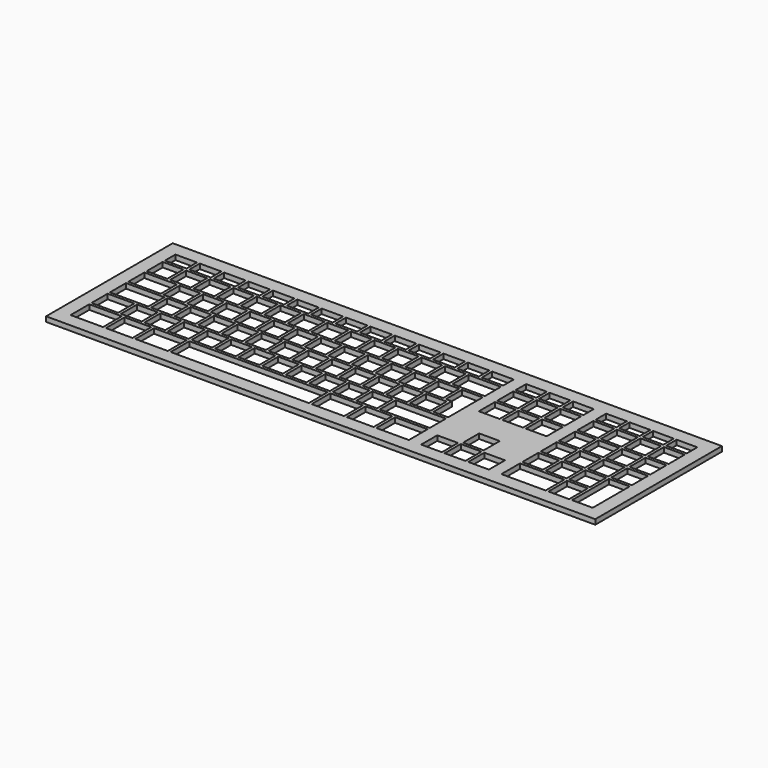
from build123d import *

# Parameters (mm, degrees)
F0_W     = 444
F0_H     = 128
F0_W_2   = 26.25
F0_H_2   = 18.9
F0_W_3   = 21.5
F0_W_4   = 111.7
F0_H_3   = 16.25
F0_W_5   = 16.72
F0_W_6   = 31
F0_W_7   = 35.74
F0_H_4   = 18.81
F0_H_5   = 37.3
F0_W_8   = 40.44
F0_W_9   = 17.4
F0_H_6   = 10.6
F0_W_10  = 26.2
F0_W_11  = 16.7007
F1_DEPTH = 4


with BuildPart() as f1:
    # F0 (on Top) → F1 (new body)
    with BuildSketch(Plane.XY):
        with Locations((7.586707, -144.251948)):
            Rectangle(F0_W, F0_H)
        with Locations((-190.288293, -187.801948)):
            Rectangle(F0_W_2, F0_H_2, mode=Mode.SUBTRACT)
        with Locations((-164.113293, -187.801948)):
            Rectangle(F0_W_3, F0_H_2, mode=Mode.SUBTRACT)
        with Locations((-137.938293, -187.801948)):
            Rectangle(F0_W_2, F0_H_2, mode=Mode.SUBTRACT)
        with Locations((-66.663293, -187.801948)):
            Rectangle(F0_W_4, F0_H_2, mode=Mode.SUBTRACT)
        with Locations((4.611707, -187.801948)):
            Rectangle(F0_W_2, F0_H_2, mode=Mode.SUBTRACT)
        with Locations((-192.663293, -167.926948)):
            Rectangle(F0_W_3, F0_H_3, mode=Mode.SUBTRACT)
        with Locations((-171.253293, -167.926948)):
            Rectangle(F0_W_5, F0_H_3, mode=Mode.SUBTRACT)
        with Locations((-152.233293, -167.926948)):
            Rectangle(F0_W_5, F0_H_3, mode=Mode.SUBTRACT)
        with Locations((-133.213293, -167.926948)):
            Rectangle(F0_W_5, F0_H_3, mode=Mode.SUBTRACT)
        with Locations((-114.193293, -167.926948)):
            Rectangle(F0_W_5, F0_H_3, mode=Mode.SUBTRACT)
        with Locations((-187.913293, -149.376948)):
            Rectangle(F0_W_6, F0_H_3, mode=Mode.SUBTRACT)
        with Locations((-161.753293, -149.376948)):
            Rectangle(F0_W_5, F0_H_3, mode=Mode.SUBTRACT)
        with Locations((-142.733293, -149.376948)):
            Rectangle(F0_W_5, F0_H_3, mode=Mode.SUBTRACT)
        with Locations((-123.713293, -149.376948)):
            Rectangle(F0_W_5, F0_H_3, mode=Mode.SUBTRACT)
        with Locations((-104.693293, -149.376948)):
            Rectangle(F0_W_5, F0_H_3, mode=Mode.SUBTRACT)
        with Locations((-95.173293, -167.926948)):
            Rectangle(F0_W_5, F0_H_3, mode=Mode.SUBTRACT)
        with Locations((-76.153293, -167.926948)):
            Rectangle(F0_W_5, F0_H_3, mode=Mode.SUBTRACT)
        with Locations((-57.133293, -167.926948)):
            Rectangle(F0_W_5, F0_H_3, mode=Mode.SUBTRACT)
        with Locations((-38.113293, -167.926948)):
            Rectangle(F0_W_5, F0_H_3, mode=Mode.SUBTRACT)
        with Locations((-19.093293, -167.926948)):
            Rectangle(F0_W_5, F0_H_3, mode=Mode.SUBTRACT)
        with Locations((-0.073293, -167.926948)):
            Rectangle(F0_W_5, F0_H_3, mode=Mode.SUBTRACT)
        with Locations((-85.673293, -149.376948)):
            Rectangle(F0_W_5, F0_H_3, mode=Mode.SUBTRACT)
        with Locations((-66.653293, -149.376948)):
            Rectangle(F0_W_5, F0_H_3, mode=Mode.SUBTRACT)
        with Locations((-47.633293, -149.376948)):
            Rectangle(F0_W_5, F0_H_3, mode=Mode.SUBTRACT)
        with Locations((-28.613293, -149.376948)):
            Rectangle(F0_W_5, F0_H_3, mode=Mode.SUBTRACT)
        with Locations((-9.593293, -149.376948)):
            Rectangle(F0_W_5, F0_H_3, mode=Mode.SUBTRACT)
        with Locations((30.786707, -187.801948)):
            Rectangle(F0_W_3, F0_H_2, mode=Mode.SUBTRACT)
        with Locations((56.961707, -187.801948)):
            Rectangle(F0_W_2, F0_H_2, mode=Mode.SUBTRACT)
        with Locations((88.406707, -189.126948)):
            Rectangle(F0_W_5, F0_H_3, mode=Mode.SUBTRACT)
        with Locations((107.426707, -189.126948)):
            Rectangle(F0_W_5, F0_H_3, mode=Mode.SUBTRACT)
        with Locations((126.446707, -189.126948)):
            Rectangle(F0_W_5, F0_H_3, mode=Mode.SUBTRACT)
        with Locations((162.676707, -187.756948)):
            Rectangle(F0_W_7, F0_H_4, mode=Mode.SUBTRACT)
        with Locations((191.206707, -187.756948)):
            Rectangle(F0_W_5, F0_H_4, mode=Mode.SUBTRACT)
        with Locations((210.226707, -178.451948)):
            Rectangle(F0_W_5, F0_H_5, mode=Mode.SUBTRACT)
        with Locations((18.946707, -167.926948)):
            Rectangle(F0_W_5, F0_H_3, mode=Mode.SUBTRACT)
        with Locations((49.826707, -167.926948)):
            Rectangle(F0_W_8, F0_H_3, mode=Mode.SUBTRACT)
        with Locations((107.426707, -170.576948)):
            Rectangle(F0_W_5, F0_H_3, mode=Mode.SUBTRACT)
        with Locations((9.426707, -149.376948)):
            Rectangle(F0_W_5, F0_H_3, mode=Mode.SUBTRACT)
        with Locations((28.446707, -149.376948)):
            Rectangle(F0_W_5, F0_H_3, mode=Mode.SUBTRACT)
        with Locations((47.466707, -149.376948)):
            Rectangle(F0_W_5, F0_H_3, mode=Mode.SUBTRACT)
        with Locations((153.166707, -167.926948)):
            Rectangle(F0_W_5, F0_H_3, mode=Mode.SUBTRACT)
        with Locations((172.186707, -167.926948)):
            Rectangle(F0_W_5, F0_H_3, mode=Mode.SUBTRACT)
        with Locations((191.206707, -167.926948)):
            Rectangle(F0_W_5, F0_H_3, mode=Mode.SUBTRACT)
        with Locations((153.166707, -149.376948)):
            Rectangle(F0_W_5, F0_H_3, mode=Mode.SUBTRACT)
        with Locations((172.186707, -149.376948)):
            Rectangle(F0_W_5, F0_H_3, mode=Mode.SUBTRACT)
        with Locations((191.206707, -149.376948)):
            Rectangle(F0_W_5, F0_H_3, mode=Mode.SUBTRACT)
        with Locations((210.226707, -149.376948)):
            Rectangle(F0_W_5, F0_H_3, mode=Mode.SUBTRACT)
        with Locations((-190.288293, -130.826948)):
            Rectangle(F0_W_2, F0_H_3, mode=Mode.SUBTRACT)
        with Locations((-166.503293, -130.826948)):
            Rectangle(F0_W_5, F0_H_3, mode=Mode.SUBTRACT)
        with Locations((-147.483293, -130.826948)):
            Rectangle(F0_W_5, F0_H_3, mode=Mode.SUBTRACT)
        with Locations((-128.463293, -130.826948)):
            Rectangle(F0_W_5, F0_H_3, mode=Mode.SUBTRACT)
        with Locations((-109.443293, -130.826948)):
            Rectangle(F0_W_5, F0_H_3, mode=Mode.SUBTRACT)
        with Locations((-195.053293, -112.276948)):
            Rectangle(F0_W_5, F0_H_3, mode=Mode.SUBTRACT)
        with Locations((-176.033293, -112.276948)):
            Rectangle(F0_W_5, F0_H_3, mode=Mode.SUBTRACT)
        with Locations((-157.013293, -112.276948)):
            Rectangle(F0_W_5, F0_H_3, mode=Mode.SUBTRACT)
        with Locations((-137.993293, -112.276948)):
            Rectangle(F0_W_5, F0_H_3, mode=Mode.SUBTRACT)
        with Locations((-118.973293, -112.276948)):
            Rectangle(F0_W_5, F0_H_3, mode=Mode.SUBTRACT)
        with Locations((-90.423293, -130.826948)):
            Rectangle(F0_W_5, F0_H_3, mode=Mode.SUBTRACT)
        with Locations((-71.403293, -130.826948)):
            Rectangle(F0_W_5, F0_H_3, mode=Mode.SUBTRACT)
        with Locations((-52.383293, -130.826948)):
            Rectangle(F0_W_5, F0_H_3, mode=Mode.SUBTRACT)
        with Locations((-33.363293, -130.826948)):
            Rectangle(F0_W_5, F0_H_3, mode=Mode.SUBTRACT)
        with Locations((-14.343293, -130.826948)):
            Rectangle(F0_W_5, F0_H_3, mode=Mode.SUBTRACT)
        with Locations((4.676707, -130.826948)):
            Rectangle(F0_W_5, F0_H_3, mode=Mode.SUBTRACT)
        with Locations((-99.953293, -112.276948)):
            Rectangle(F0_W_5, F0_H_3, mode=Mode.SUBTRACT)
        with Locations((-80.933293, -112.276948)):
            Rectangle(F0_W_5, F0_H_3, mode=Mode.SUBTRACT)
        with Locations((-61.913293, -112.276948)):
            Rectangle(F0_W_5, F0_H_3, mode=Mode.SUBTRACT)
        with Locations((-42.893293, -112.276948)):
            Rectangle(F0_W_5, F0_H_3, mode=Mode.SUBTRACT)
        with Locations((-23.873293, -112.276948)):
            Rectangle(F0_W_5, F0_H_3, mode=Mode.SUBTRACT)
        with Locations((-4.853293, -112.276948)):
            Rectangle(F0_W_5, F0_H_3, mode=Mode.SUBTRACT)
        with Locations((-194.713293, -96.551948)):
            Rectangle(F0_W_9, F0_H_6, mode=Mode.SUBTRACT)
        with Locations((-175.013293, -96.551948)):
            Rectangle(F0_W_9, F0_H_6, mode=Mode.SUBTRACT)
        with Locations((-155.313293, -96.551948)):
            Rectangle(F0_W_9, F0_H_6, mode=Mode.SUBTRACT)
        with Locations((-135.613293, -96.551948)):
            Rectangle(F0_W_9, F0_H_6, mode=Mode.SUBTRACT)
        with Locations((-115.913293, -96.551948)):
            Rectangle(F0_W_9, F0_H_6, mode=Mode.SUBTRACT)
        with Locations((-96.213293, -96.551948)):
            Rectangle(F0_W_9, F0_H_6, mode=Mode.SUBTRACT)
        with Locations((-76.513293, -96.551948)):
            Rectangle(F0_W_9, F0_H_6, mode=Mode.SUBTRACT)
        with Locations((-56.813293, -96.551948)):
            Rectangle(F0_W_9, F0_H_6, mode=Mode.SUBTRACT)
        with Locations((-37.113293, -96.551948)):
            Rectangle(F0_W_9, F0_H_6, mode=Mode.SUBTRACT)
        with Locations((-17.413293, -96.551948)):
            Rectangle(F0_W_9, F0_H_6, mode=Mode.SUBTRACT)
        with Locations((2.286707, -96.551948)):
            Rectangle(F0_W_9, F0_H_6, mode=Mode.SUBTRACT)
        Polygon((53.376707, -122.701948), (70.046707, -122.701948), (70.046707, -157.501948), (58.126707, -157.501948), (58.126707, -138.951948), (53.376707, -138.951948), align=None, mode=Mode.SUBTRACT)
        with Locations((23.696707, -130.826948)):
            Rectangle(F0_W_5, F0_H_3, mode=Mode.SUBTRACT)
        with Locations((42.716707, -130.826948)):
            Rectangle(F0_W_5, F0_H_3, mode=Mode.SUBTRACT)
        with Locations((88.406707, -130.826948)):
            Rectangle(F0_W_5, F0_H_3, mode=Mode.SUBTRACT)
        with Locations((107.426707, -130.826948)):
            Rectangle(F0_W_5, F0_H_3, mode=Mode.SUBTRACT)
        with Locations((14.166707, -112.276948)):
            Rectangle(F0_W_5, F0_H_3, mode=Mode.SUBTRACT)
        with Locations((33.186707, -112.276948)):
            Rectangle(F0_W_5, F0_H_3, mode=Mode.SUBTRACT)
        with Locations((56.946707, -112.276948)):
            Rectangle(F0_W_10, F0_H_3, mode=Mode.SUBTRACT)
        with Locations((88.406707, -112.276948)):
            Rectangle(F0_W_5, F0_H_3, mode=Mode.SUBTRACT)
        with Locations((107.426707, -112.276948)):
            Rectangle(F0_W_5, F0_H_3, mode=Mode.SUBTRACT)
        with Locations((126.446707, -130.826948)):
            Rectangle(F0_W_5, F0_H_3, mode=Mode.SUBTRACT)
        with Locations((153.166707, -130.826948)):
            Rectangle(F0_W_5, F0_H_3, mode=Mode.SUBTRACT)
        with Locations((172.186707, -130.826948)):
            Rectangle(F0_W_5, F0_H_3, mode=Mode.SUBTRACT)
        with Locations((191.206707, -130.826948)):
            Rectangle(F0_W_5, F0_H_3, mode=Mode.SUBTRACT)
        with Locations((210.226707, -130.826948)):
            Rectangle(F0_W_5, F0_H_3, mode=Mode.SUBTRACT)
        with Locations((126.446707, -112.276948)):
            Rectangle(F0_W_5, F0_H_3, mode=Mode.SUBTRACT)
        with Locations((153.166707, -112.276948)):
            Rectangle(F0_W_5, F0_H_3, mode=Mode.SUBTRACT)
        with Locations((172.186707, -112.276948)):
            Rectangle(F0_W_5, F0_H_3, mode=Mode.SUBTRACT)
        with Locations((191.206707, -112.276948)):
            Rectangle(F0_W_5, F0_H_3, mode=Mode.SUBTRACT)
        with Locations((210.226707, -112.276948)):
            Rectangle(F0_W_5, F0_H_3, mode=Mode.SUBTRACT)
        with Locations((21.986707, -96.551948)):
            Rectangle(F0_W_9, F0_H_6, mode=Mode.SUBTRACT)
        with Locations((41.686707, -96.551948)):
            Rectangle(F0_W_9, F0_H_6, mode=Mode.SUBTRACT)
        with Locations((61.386707, -96.551948)):
            Rectangle(F0_W_9, F0_H_6, mode=Mode.SUBTRACT)
        with Locations((88.446707, -96.551948)):
            Rectangle(F0_W_5, F0_H_6, mode=Mode.SUBTRACT)
        with Locations((107.446707, -96.551948)):
            Rectangle(F0_W_5, F0_H_6, mode=Mode.SUBTRACT)
        with Locations((126.446707, -96.551948)):
            Rectangle(F0_W_5, F0_H_6, mode=Mode.SUBTRACT)
        with Locations((153.157057, -96.551948)):
            Rectangle(F0_W_11, F0_H_6, mode=Mode.SUBTRACT)
        with Locations((172.157057, -96.551948)):
            Rectangle(F0_W_11, F0_H_6, mode=Mode.SUBTRACT)
        with Locations((191.157057, -96.551948)):
            Rectangle(F0_W_11, F0_H_6, mode=Mode.SUBTRACT)
        with Locations((210.157057, -96.551948)):
            Rectangle(F0_W_11, F0_H_6, mode=Mode.SUBTRACT)
        with Locations((7.586707, -144.251948)):
            Rectangle(F0_W, F0_H)
        with Locations((-190.288293, -187.801948)):
            Rectangle(F0_W_2, F0_H_2, mode=Mode.SUBTRACT)
        with Locations((-164.113293, -187.801948)):
            Rectangle(F0_W_3, F0_H_2, mode=Mode.SUBTRACT)
        with Locations((-137.938293, -187.801948)):
            Rectangle(F0_W_2, F0_H_2, mode=Mode.SUBTRACT)
        with Locations((-66.663293, -187.801948)):
            Rectangle(F0_W_4, F0_H_2, mode=Mode.SUBTRACT)
        with Locations((4.611707, -187.801948)):
            Rectangle(F0_W_2, F0_H_2, mode=Mode.SUBTRACT)
        with Locations((-192.663293, -167.926948)):
            Rectangle(F0_W_3, F0_H_3, mode=Mode.SUBTRACT)
        with Locations((-171.253293, -167.926948)):
            Rectangle(F0_W_5, F0_H_3, mode=Mode.SUBTRACT)
        with Locations((-152.233293, -167.926948)):
            Rectangle(F0_W_5, F0_H_3, mode=Mode.SUBTRACT)
        with Locations((-133.213293, -167.926948)):
            Rectangle(F0_W_5, F0_H_3, mode=Mode.SUBTRACT)
        with Locations((-114.193293, -167.926948)):
            Rectangle(F0_W_5, F0_H_3, mode=Mode.SUBTRACT)
        with Locations((-187.913293, -149.376948)):
            Rectangle(F0_W_6, F0_H_3, mode=Mode.SUBTRACT)
        with Locations((-161.753293, -149.376948)):
            Rectangle(F0_W_5, F0_H_3, mode=Mode.SUBTRACT)
        with Locations((-142.733293, -149.376948)):
            Rectangle(F0_W_5, F0_H_3, mode=Mode.SUBTRACT)
        with Locations((-123.713293, -149.376948)):
            Rectangle(F0_W_5, F0_H_3, mode=Mode.SUBTRACT)
        with Locations((-104.693293, -149.376948)):
            Rectangle(F0_W_5, F0_H_3, mode=Mode.SUBTRACT)
        with Locations((-95.173293, -167.926948)):
            Rectangle(F0_W_5, F0_H_3, mode=Mode.SUBTRACT)
        with Locations((-76.153293, -167.926948)):
            Rectangle(F0_W_5, F0_H_3, mode=Mode.SUBTRACT)
        with Locations((-57.133293, -167.926948)):
            Rectangle(F0_W_5, F0_H_3, mode=Mode.SUBTRACT)
        with Locations((-38.113293, -167.926948)):
            Rectangle(F0_W_5, F0_H_3, mode=Mode.SUBTRACT)
        with Locations((-19.093293, -167.926948)):
            Rectangle(F0_W_5, F0_H_3, mode=Mode.SUBTRACT)
        with Locations((-0.073293, -167.926948)):
            Rectangle(F0_W_5, F0_H_3, mode=Mode.SUBTRACT)
        with Locations((-85.673293, -149.376948)):
            Rectangle(F0_W_5, F0_H_3, mode=Mode.SUBTRACT)
        with Locations((-66.653293, -149.376948)):
            Rectangle(F0_W_5, F0_H_3, mode=Mode.SUBTRACT)
        with Locations((-47.633293, -149.376948)):
            Rectangle(F0_W_5, F0_H_3, mode=Mode.SUBTRACT)
        with Locations((-28.613293, -149.376948)):
            Rectangle(F0_W_5, F0_H_3, mode=Mode.SUBTRACT)
        with Locations((-9.593293, -149.376948)):
            Rectangle(F0_W_5, F0_H_3, mode=Mode.SUBTRACT)
        with Locations((30.786707, -187.801948)):
            Rectangle(F0_W_3, F0_H_2, mode=Mode.SUBTRACT)
        with Locations((56.961707, -187.801948)):
            Rectangle(F0_W_2, F0_H_2, mode=Mode.SUBTRACT)
        with Locations((88.406707, -189.126948)):
            Rectangle(F0_W_5, F0_H_3, mode=Mode.SUBTRACT)
        with Locations((107.426707, -189.126948)):
            Rectangle(F0_W_5, F0_H_3, mode=Mode.SUBTRACT)
        with Locations((126.446707, -189.126948)):
            Rectangle(F0_W_5, F0_H_3, mode=Mode.SUBTRACT)
        with Locations((162.676707, -187.756948)):
            Rectangle(F0_W_7, F0_H_4, mode=Mode.SUBTRACT)
        with Locations((191.206707, -187.756948)):
            Rectangle(F0_W_5, F0_H_4, mode=Mode.SUBTRACT)
        with Locations((210.226707, -178.451948)):
            Rectangle(F0_W_5, F0_H_5, mode=Mode.SUBTRACT)
        with Locations((18.946707, -167.926948)):
            Rectangle(F0_W_5, F0_H_3, mode=Mode.SUBTRACT)
        with Locations((49.826707, -167.926948)):
            Rectangle(F0_W_8, F0_H_3, mode=Mode.SUBTRACT)
        with Locations((107.426707, -170.576948)):
            Rectangle(F0_W_5, F0_H_3, mode=Mode.SUBTRACT)
        with Locations((9.426707, -149.376948)):
            Rectangle(F0_W_5, F0_H_3, mode=Mode.SUBTRACT)
        with Locations((28.446707, -149.376948)):
            Rectangle(F0_W_5, F0_H_3, mode=Mode.SUBTRACT)
        with Locations((47.466707, -149.376948)):
            Rectangle(F0_W_5, F0_H_3, mode=Mode.SUBTRACT)
        with Locations((153.166707, -167.926948)):
            Rectangle(F0_W_5, F0_H_3, mode=Mode.SUBTRACT)
        with Locations((172.186707, -167.926948)):
            Rectangle(F0_W_5, F0_H_3, mode=Mode.SUBTRACT)
        with Locations((191.206707, -167.926948)):
            Rectangle(F0_W_5, F0_H_3, mode=Mode.SUBTRACT)
        with Locations((153.166707, -149.376948)):
            Rectangle(F0_W_5, F0_H_3, mode=Mode.SUBTRACT)
        with Locations((172.186707, -149.376948)):
            Rectangle(F0_W_5, F0_H_3, mode=Mode.SUBTRACT)
        with Locations((191.206707, -149.376948)):
            Rectangle(F0_W_5, F0_H_3, mode=Mode.SUBTRACT)
        with Locations((210.226707, -149.376948)):
            Rectangle(F0_W_5, F0_H_3, mode=Mode.SUBTRACT)
        with Locations((-190.288293, -130.826948)):
            Rectangle(F0_W_2, F0_H_3, mode=Mode.SUBTRACT)
        with Locations((-166.503293, -130.826948)):
            Rectangle(F0_W_5, F0_H_3, mode=Mode.SUBTRACT)
        with Locations((-147.483293, -130.826948)):
            Rectangle(F0_W_5, F0_H_3, mode=Mode.SUBTRACT)
        with Locations((-128.463293, -130.826948)):
            Rectangle(F0_W_5, F0_H_3, mode=Mode.SUBTRACT)
        with Locations((-109.443293, -130.826948)):
            Rectangle(F0_W_5, F0_H_3, mode=Mode.SUBTRACT)
        with Locations((-195.053293, -112.276948)):
            Rectangle(F0_W_5, F0_H_3, mode=Mode.SUBTRACT)
        with Locations((-176.033293, -112.276948)):
            Rectangle(F0_W_5, F0_H_3, mode=Mode.SUBTRACT)
        with Locations((-157.013293, -112.276948)):
            Rectangle(F0_W_5, F0_H_3, mode=Mode.SUBTRACT)
        with Locations((-137.993293, -112.276948)):
            Rectangle(F0_W_5, F0_H_3, mode=Mode.SUBTRACT)
        with Locations((-118.973293, -112.276948)):
            Rectangle(F0_W_5, F0_H_3, mode=Mode.SUBTRACT)
        with Locations((-90.423293, -130.826948)):
            Rectangle(F0_W_5, F0_H_3, mode=Mode.SUBTRACT)
        with Locations((-71.403293, -130.826948)):
            Rectangle(F0_W_5, F0_H_3, mode=Mode.SUBTRACT)
        with Locations((-52.383293, -130.826948)):
            Rectangle(F0_W_5, F0_H_3, mode=Mode.SUBTRACT)
        with Locations((-33.363293, -130.826948)):
            Rectangle(F0_W_5, F0_H_3, mode=Mode.SUBTRACT)
        with Locations((-14.343293, -130.826948)):
            Rectangle(F0_W_5, F0_H_3, mode=Mode.SUBTRACT)
        with Locations((4.676707, -130.826948)):
            Rectangle(F0_W_5, F0_H_3, mode=Mode.SUBTRACT)
        with Locations((-99.953293, -112.276948)):
            Rectangle(F0_W_5, F0_H_3, mode=Mode.SUBTRACT)
        with Locations((-80.933293, -112.276948)):
            Rectangle(F0_W_5, F0_H_3, mode=Mode.SUBTRACT)
        with Locations((-61.913293, -112.276948)):
            Rectangle(F0_W_5, F0_H_3, mode=Mode.SUBTRACT)
        with Locations((-42.893293, -112.276948)):
            Rectangle(F0_W_5, F0_H_3, mode=Mode.SUBTRACT)
        with Locations((-23.873293, -112.276948)):
            Rectangle(F0_W_5, F0_H_3, mode=Mode.SUBTRACT)
        with Locations((-4.853293, -112.276948)):
            Rectangle(F0_W_5, F0_H_3, mode=Mode.SUBTRACT)
        with Locations((-194.713293, -96.551948)):
            Rectangle(F0_W_9, F0_H_6, mode=Mode.SUBTRACT)
        with Locations((-175.013293, -96.551948)):
            Rectangle(F0_W_9, F0_H_6, mode=Mode.SUBTRACT)
        with Locations((-155.313293, -96.551948)):
            Rectangle(F0_W_9, F0_H_6, mode=Mode.SUBTRACT)
        with Locations((-135.613293, -96.551948)):
            Rectangle(F0_W_9, F0_H_6, mode=Mode.SUBTRACT)
        with Locations((-115.913293, -96.551948)):
            Rectangle(F0_W_9, F0_H_6, mode=Mode.SUBTRACT)
        with Locations((-96.213293, -96.551948)):
            Rectangle(F0_W_9, F0_H_6, mode=Mode.SUBTRACT)
        with Locations((-76.513293, -96.551948)):
            Rectangle(F0_W_9, F0_H_6, mode=Mode.SUBTRACT)
        with Locations((-56.813293, -96.551948)):
            Rectangle(F0_W_9, F0_H_6, mode=Mode.SUBTRACT)
        with Locations((-37.113293, -96.551948)):
            Rectangle(F0_W_9, F0_H_6, mode=Mode.SUBTRACT)
        with Locations((-17.413293, -96.551948)):
            Rectangle(F0_W_9, F0_H_6, mode=Mode.SUBTRACT)
        with Locations((2.286707, -96.551948)):
            Rectangle(F0_W_9, F0_H_6, mode=Mode.SUBTRACT)
        Polygon((53.376707, -122.701948), (70.046707, -122.701948), (70.046707, -157.501948), (58.126707, -157.501948), (58.126707, -138.951948), (53.376707, -138.951948), align=None, mode=Mode.SUBTRACT)
        with Locations((23.696707, -130.826948)):
            Rectangle(F0_W_5, F0_H_3, mode=Mode.SUBTRACT)
        with Locations((42.716707, -130.826948)):
            Rectangle(F0_W_5, F0_H_3, mode=Mode.SUBTRACT)
        with Locations((88.406707, -130.826948)):
            Rectangle(F0_W_5, F0_H_3, mode=Mode.SUBTRACT)
        with Locations((107.426707, -130.826948)):
            Rectangle(F0_W_5, F0_H_3, mode=Mode.SUBTRACT)
        with Locations((14.166707, -112.276948)):
            Rectangle(F0_W_5, F0_H_3, mode=Mode.SUBTRACT)
        with Locations((33.186707, -112.276948)):
            Rectangle(F0_W_5, F0_H_3, mode=Mode.SUBTRACT)
        with Locations((56.946707, -112.276948)):
            Rectangle(F0_W_10, F0_H_3, mode=Mode.SUBTRACT)
        with Locations((88.406707, -112.276948)):
            Rectangle(F0_W_5, F0_H_3, mode=Mode.SUBTRACT)
        with Locations((107.426707, -112.276948)):
            Rectangle(F0_W_5, F0_H_3, mode=Mode.SUBTRACT)
        with Locations((126.446707, -130.826948)):
            Rectangle(F0_W_5, F0_H_3, mode=Mode.SUBTRACT)
        with Locations((153.166707, -130.826948)):
            Rectangle(F0_W_5, F0_H_3, mode=Mode.SUBTRACT)
        with Locations((172.186707, -130.826948)):
            Rectangle(F0_W_5, F0_H_3, mode=Mode.SUBTRACT)
        with Locations((191.206707, -130.826948)):
            Rectangle(F0_W_5, F0_H_3, mode=Mode.SUBTRACT)
        with Locations((210.226707, -130.826948)):
            Rectangle(F0_W_5, F0_H_3, mode=Mode.SUBTRACT)
        with Locations((126.446707, -112.276948)):
            Rectangle(F0_W_5, F0_H_3, mode=Mode.SUBTRACT)
        with Locations((153.166707, -112.276948)):
            Rectangle(F0_W_5, F0_H_3, mode=Mode.SUBTRACT)
        with Locations((172.186707, -112.276948)):
            Rectangle(F0_W_5, F0_H_3, mode=Mode.SUBTRACT)
        with Locations((191.206707, -112.276948)):
            Rectangle(F0_W_5, F0_H_3, mode=Mode.SUBTRACT)
        with Locations((210.226707, -112.276948)):
            Rectangle(F0_W_5, F0_H_3, mode=Mode.SUBTRACT)
        with Locations((21.986707, -96.551948)):
            Rectangle(F0_W_9, F0_H_6, mode=Mode.SUBTRACT)
        with Locations((41.686707, -96.551948)):
            Rectangle(F0_W_9, F0_H_6, mode=Mode.SUBTRACT)
        with Locations((61.386707, -96.551948)):
            Rectangle(F0_W_9, F0_H_6, mode=Mode.SUBTRACT)
        with Locations((88.446707, -96.551948)):
            Rectangle(F0_W_5, F0_H_6, mode=Mode.SUBTRACT)
        with Locations((107.446707, -96.551948)):
            Rectangle(F0_W_5, F0_H_6, mode=Mode.SUBTRACT)
        with Locations((126.446707, -96.551948)):
            Rectangle(F0_W_5, F0_H_6, mode=Mode.SUBTRACT)
        with Locations((153.157057, -96.551948)):
            Rectangle(F0_W_11, F0_H_6, mode=Mode.SUBTRACT)
        with Locations((172.157057, -96.551948)):
            Rectangle(F0_W_11, F0_H_6, mode=Mode.SUBTRACT)
        with Locations((191.157057, -96.551948)):
            Rectangle(F0_W_11, F0_H_6, mode=Mode.SUBTRACT)
        with Locations((210.157057, -96.551948)):
            Rectangle(F0_W_11, F0_H_6, mode=Mode.SUBTRACT)
    extrude(amount=F1_DEPTH)


solid = f1.part
